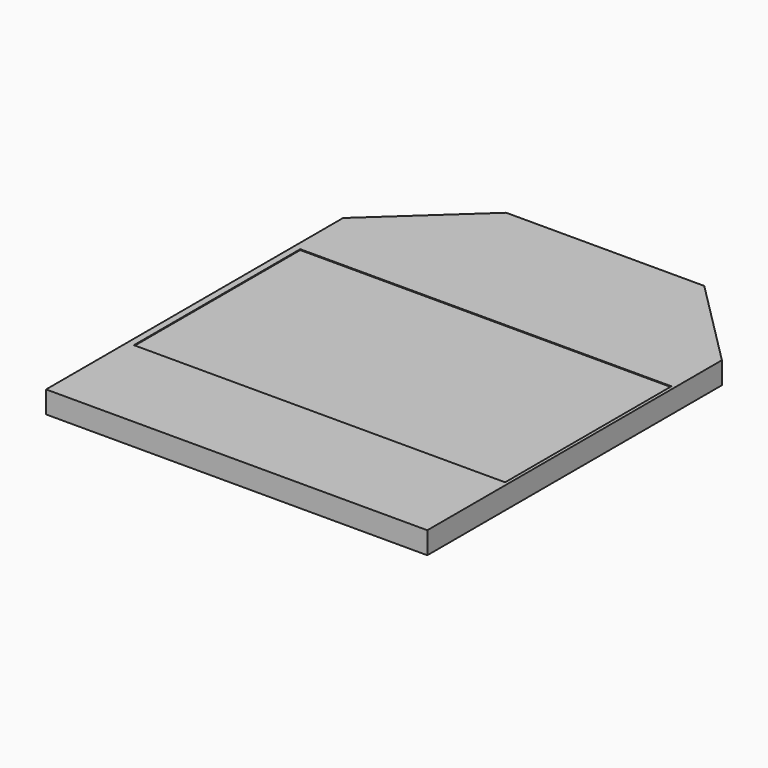
from build123d import *

# Parameters (mm, degrees)
PAD023_DEPTH    = 2.7
SKETCH025_W     = 45.482226
SKETCH025_H     = 25.470864
POCKET004_DEPTH = 0.1
SKETCH026_W     = 11.525024
SKETCH026_H     = 2.6917
PAD024_DEPTH    = 1
SKETCH027_W     = 46.067685
SKETCH027_H     = 14.680909
PAD025_DEPTH    = 0.2


with BuildPart() as part:
    # Sketch024 → Pad023 (new body)
    with BuildSketch(Plane.XY):
        Polygon((-12.752221, 28.783382), (11.516397, 28.783382), (22.453339, 17.81637), (22.453339, -27.300421), (-24.258354, -27.300421), (-24.258354, 18.181068), align=None)
    extrude(amount=PAD023_DEPTH)

    # Sketch025 (on Face8 of Pad023) → Pocket004 (cut)
    with BuildSketch(Plane.XY.offset(2.7)):
        with Locations((-0.682435, -2.157326)):
            Rectangle(SKETCH025_W, SKETCH025_H)
    extrude(amount=-POCKET004_DEPTH, mode=Mode.SUBTRACT)

    # Sketch026 (on Face4 of Pocket004) → Pad024 (join)
    with BuildSketch(Plane(origin=(0, 0, 0), x_dir=(1, 0, 0), z_dir=(0, 0, -1))):
        with Locations((-0.606202, 18.569942)):
            Rectangle(SKETCH026_W, SKETCH026_H)
    extrude(amount=PAD024_DEPTH)

    # Sketch027 (on Face4 of Pad024) → Pad025 (join)
    with BuildSketch(Plane(origin=(0, 0, 0), x_dir=(1, 0, 0), z_dir=(0, 0, -1))):
        with Locations((-1.0373535, 18.9408465)):
            Rectangle(SKETCH027_W, SKETCH027_H)
    extrude(amount=PAD025_DEPTH)


solid = part.part
